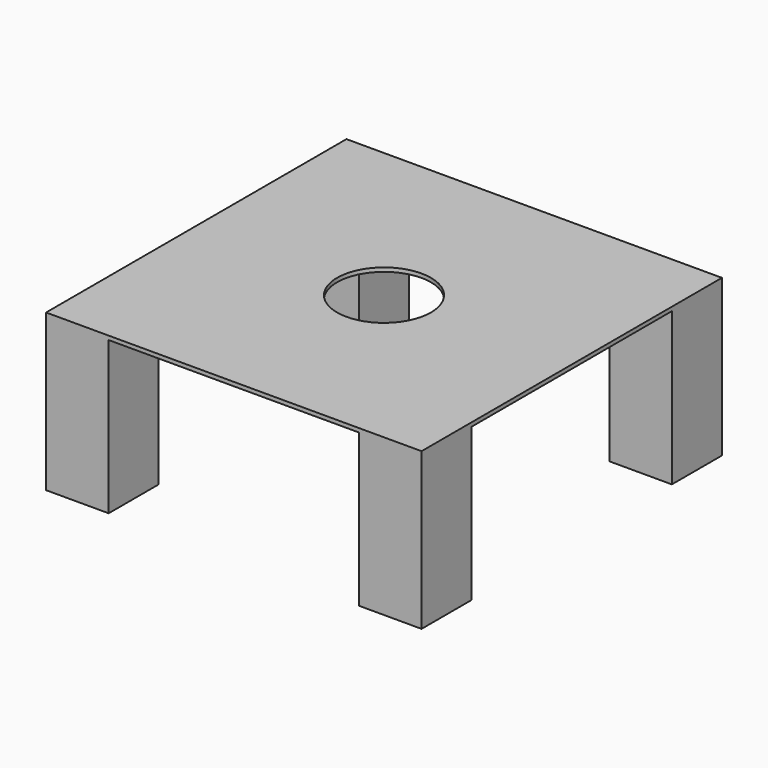
from build123d import *

# Parameters (mm, degrees)
F0_R     = 38.1
F1_DEPTH = 3.175
F0_W     = 50.8
F0_H     = 50.8
F2_DEPTH = 127


with BuildPart() as f1:
    # F0 (on Top) → F1 (new body)
    with BuildSketch(Plane.XY):
        Polygon((-101.6, -152.4), (101.6, -152.4), (101.6, -101.6), (152.4, -101.6), (152.4, 101.6), (101.6, 101.6), (101.6, 152.4), (-101.6, 152.4), (-101.6, 101.6), (-152.4, 101.6), (-152.4, -101.6), (-101.6, -101.6), align=None)
        Circle(F0_R, mode=Mode.SUBTRACT)
    extrude(amount=-F1_DEPTH)

    # F0 (on Top) → F2 (join)
    with BuildSketch(Plane.XY):
        with Locations((-127, -127)):
            Rectangle(F0_W, F0_H)
        with Locations((-127, 127)):
            Rectangle(F0_W, F0_H)
        with Locations((127, 127)):
            Rectangle(F0_W, F0_H)
        with Locations((127, -127)):
            Rectangle(F0_W, F0_H)
    extrude(amount=-F2_DEPTH)


solid = f1.part
